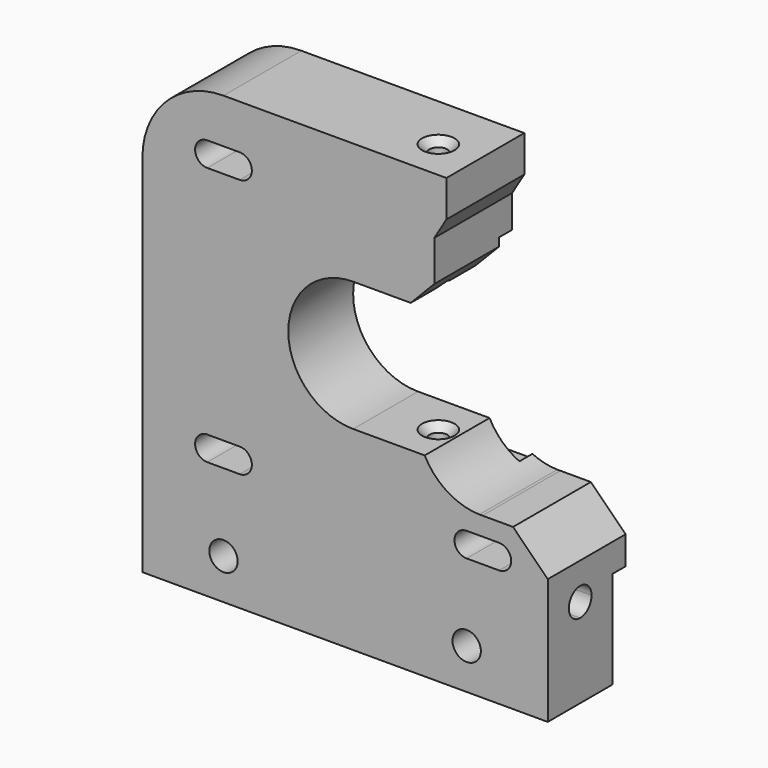
from build123d import *

# Parameters (mm, degrees)
F0_R            = 1.75
F1_DEPTH        = 12
F3_DEPTH        = 2
F4_W            = 50
F4_H            = 12.016664
F5_DEPTH        = 2
F6_R            = 1.1
F7_DEPTH        = 60
F9_DEPTH        = 11
F11_DEPTH       = 11
F13_D           = 2.2
F13_DEPTH       = 3
F13_CSINK_D     = 4
F13_CSINK_ANGLE = 90
F15_D           = 2.2
F15_DEPTH       = 3
F15_CSINK_D     = 4
F15_CSINK_ANGLE = 90
F17_DEPTH       = 25


with BuildPart() as f1:
    # F0 (on Front) → F1 (new body)
    with BuildSketch(Plane.XZ):
        with BuildLine():
            Line((0, 45), (0, 0))
            Line((0, 0), (50, 0))
            Line((50, 0), (50, 15.500001))
            Line((50, 15.500001), (45, 20.500001))
            Line((45, 20.500001), (38.5, 20.500001))
            Line((38.5, 20.500001), (34.995267, 24.004733))
            Line((34.995267, 24.004733), (25.995267, 24.004733))
            ThreePointArc((25.995267, 24.004733), (17.995267, 32.004733), (25.995267, 40.004733))
            Line((25.995267, 40.004733), (33.097442, 40.004733))
            Line((33.097442, 40.004733), (36, 43))
            Line((36, 43), (36, 48))
            Line((36, 48), (37.5, 50.5))
            Line((37.5, 50.5), (37.5, 55))
            Line((37.5, 55), (10, 55))
            ThreePointArc((10, 55), (2.928932, 52.071068), (0, 45))
        make_face()
        with Locations((10, 5)):
            Circle(F0_R, mode=Mode.SUBTRACT)
        with BuildLine():
            ThreePointArc((12, 17.546566), (13.5, 16.046566), (12, 14.546566))
            Line((12, 14.546566), (8, 14.546566))
            ThreePointArc((8, 14.546566), (6.5, 16.046566), (8, 17.546566))
            Line((8, 17.546566), (12, 17.546566))
        make_face(mode=Mode.SUBTRACT)
        with Locations((40, 5)):
            Circle(F0_R, mode=Mode.SUBTRACT)
        with BuildLine():
            ThreePointArc((43.990533, 17.500001), (45.490533, 16.000001), (43.990533, 14.500001))
            Line((43.990533, 14.500001), (39.990533, 14.500001))
            ThreePointArc((39.990533, 14.500001), (38.490533, 16.000001), (39.990533, 17.500001))
            Line((39.990533, 17.500001), (43.990533, 17.500001))
        make_face(mode=Mode.SUBTRACT)
        with BuildLine():
            ThreePointArc((12, 49.5), (13.5, 48), (12, 46.5))
            Line((12, 46.5), (8, 46.5))
            ThreePointArc((8, 46.5), (6.5, 48), (8, 49.5))
            Line((8, 49.5), (12, 49.5))
        make_face(mode=Mode.SUBTRACT)
    extrude(amount=F1_DEPTH)

    # F2 (on face) → F3 (cut)
    with BuildSketch(Plane(origin=(0, 0, 0), x_dir=(-1, 0, 0), z_dir=(0, 1, 0))):
        with BuildLine():
            Line((-38.5, 20.005015), (-26.077409, 20.005015))
            ThreePointArc((-26.077409, 20.005015), (-13.995267, 32.0056), (-26.079143, 44.00444))
            Line((-26.079143, 44.00444), (-36, 44.00444))
            Line((-36, 44.00444), (-38.5, 44.00444))
            Line((-38.5, 44.00444), (-38.5, 20.500001))
            Line((-38.5, 20.500001), (-38.5, 20.005015))
        make_face()
    extrude(amount=-F3_DEPTH, mode=Mode.SUBTRACT)

    # F4 (on face) → F5 (cut)
    with BuildSketch(Plane(origin=(0, 0, 0), x_dir=(-1, 0, 0), z_dir=(0, 1, 0))):
        with Locations((-25, 6.008332)):
            Rectangle(F4_W, F4_H)
    extrude(amount=-F5_DEPTH, mode=Mode.SUBTRACT)

    # F6 (on face) → F7 (cut)
    with BuildSketch(Plane.XY.offset(55)):
        with Locations((32.499979, -7)):
            Circle(F6_R)
    extrude(amount=-F7_DEPTH, mode=Mode.SUBTRACT)

    # F8 (on face) → F9 (cut)
    with BuildSketch(Plane.YZ.offset(50)):
        with BuildLine():
            ThreePointArc((-7, 9.25), (-5.762563, 9.762563), (-5.25, 11))
            ThreePointArc((-5.25, 11), (-8.237437, 12.237437), (-7, 9.25))
        make_face()
    extrude(amount=-F9_DEPTH, mode=Mode.SUBTRACT)

    # F10 (on face) → F11 (cut)
    with BuildSketch(Plane(origin=(0, 0, 0), x_dir=(-1, 0, 0), z_dir=(0, 1, 0))):
        Polygon((-44, 14), (-44, 11), (-43.990533, 8), (-41, 8), (-41, 14), align=None)
    extrude(amount=-F11_DEPTH, mode=Mode.SUBTRACT)

    # F13
    with Locations(Plane.XY.offset(24.004733)):
        with Locations((32.499979, -7)):
            CounterSinkHole(F13_D / 2, F13_CSINK_D / 2, depth=F13_DEPTH, counter_sink_angle=F13_CSINK_ANGLE)

    # F15
    with Locations(Plane.XY.offset(55)):
        with Locations((32.499979, -7)):
            CounterSinkHole(F15_D / 2, F15_CSINK_D / 2, depth=F15_DEPTH, counter_sink_angle=F15_CSINK_ANGLE)

    # F16 (on face) → F17 (cut)
    with BuildSketch(Plane.XZ.offset(12)):
        with BuildLine():
            Line((45.717547, 19.782453), (45.717547, 20.859413))
            ThreePointArc((45.717547, 20.859413), (39.79599, 35.138554), (41.570501, 19.782453))
            Line((41.570501, 19.782453), (41.944866, 19.782453))
            Line((41.944866, 19.782453), (45.717547, 19.782453))
        make_face()
        with BuildLine():
            Line((41.944866, 19.782453), (41.570501, 19.782453))
            ThreePointArc((41.570501, 19.782453), (41.757683, 19.780208), (41.944866, 19.782453))
        make_face()
    extrude(amount=-F17_DEPTH, mode=Mode.SUBTRACT)


solid = f1.part
